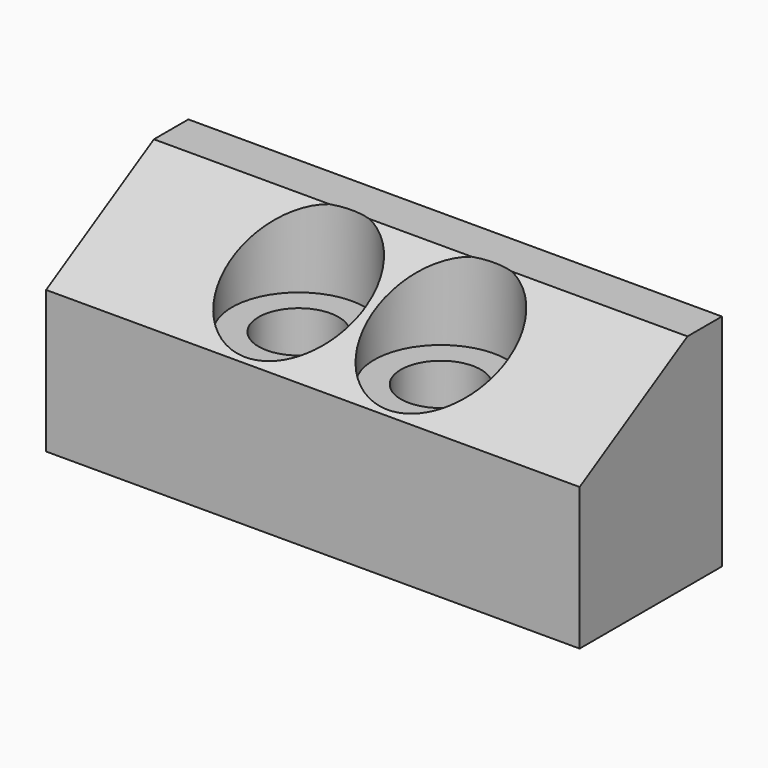
from build123d import *

# Parameters (mm, degrees)
F1_DEPTH       = 30
F3_D           = 9
F3_CBORE_D     = 15
F3_CBORE_DEPTH = 9


with BuildPart() as f1:
    # F0 (on Right) → F1 (new body, symmetric)
    with BuildSketch(Plane.YZ):
        Polygon((-20, 0), (0, 0), (0, 24.75), (-4.844555, 24.75), (-20, 16), align=None)
    extrude(amount=F1_DEPTH, both=True)

    # F3 (through all)
    with Locations(Plane.XY.offset(24.75)):
        with Locations((-8, -12), (8, -12)):
            CounterBoreHole(F3_D / 2, F3_CBORE_D / 2, F3_CBORE_DEPTH)


solid = f1.part
